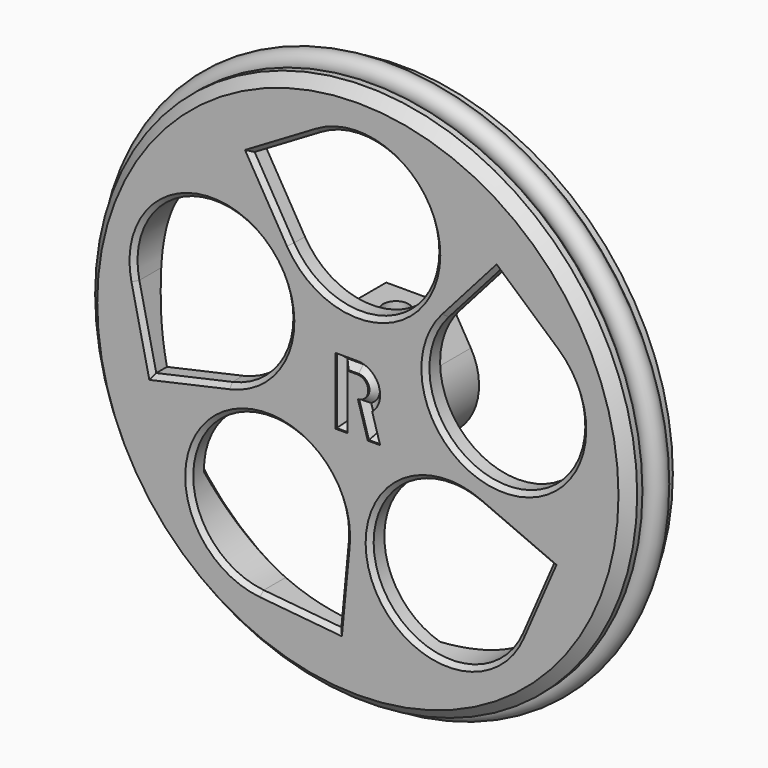
from build123d import *

# Parameters (mm, degrees)
PAD_DEPTH             = 8
CHAMFER_SIZE          = 2
SKETCH002_R           = 2.6
POCKET_DEPTH          = 1.6
SKETCH003_R           = 1.7
POCKET001_DEPTH       = 8
POCKET002_DEPTH       = 1.175
POCKET005_DEPTH       = 209.921216
POCKET005_DEPTH_BACK  = 215.521216
POLARPATTERN001_COUNT = 5
CHAMFER004_SIZE       = 0.6
POCKET008_DEPTH       = 1
CHAMFER005_SIZE       = 0.7999
TORUS001_R            = 1.5


with BuildPart() as body_wheel_right:
    # Sketch → Revolution (revolve)
    with BuildSketch(Plane.XY):
        with BuildLine():
            Line((0, -2), (28.3, -2))
            Line((28.3, -2), (33.3, 3))
            Line((33.3, 3), (36.5, 3))
            Line((36.5, 3), (36.5, 2.12132))
            Line((36.5, 2.12132), (35.43934, 1.06066))
            ThreePointArc((35.43934, 1.06066), (35, 0), (35.43934, -1.06066))
            Line((35.43934, -1.06066), (36.5, -2.12132))
            Line((36.5, -2.12132), (36.5, -3))
            Line((36.5, -3), (35.1, -4.4))
            Line((35.1, -4.4), (0, -4.4))
            Line((0, -4.4), (0, -2))
        make_face()
    revolve(axis=Axis((0, 0, 0), (0, 1, 0)))

    # Sketch001 (on Face1 of Revolution) → Pad (new body)
    with BuildSketch(Plane(origin=(0, -2, 0), x_dir=(-1, 0, 0), z_dir=(0, 1, 0))):
        with BuildLine():
            Line((4.5, 8.125), (-4.5, 8.125))
            Line((-4.5, 8.125), (-6.893963, 4.058728))
            ThreePointArc((-6.893963, 4.058728), (0, -8), (6.893963, 4.058728))
            Line((6.893963, 4.058728), (4.5, 8.125))
        make_face()
        with BuildLine():
            Line((-2.04939, 1.6), (2.04939, 1.6))
            ThreePointArc((2.04939, -1.6), (2.6, 0), (2.04939, 1.6))
            Line((-2.04939, -1.6), (2.04939, -1.6))
            ThreePointArc((-2.04939, 1.6), (-2.6, 0), (-2.04939, -1.6))
        make_face(mode=Mode.SUBTRACT)
    extrude(amount=PAD_DEPTH)

    # Chamfer
    chamfer_edges = [body_wheel_right.edges().sort_by_distance(p)[0] for p in [
        (0, -2, -8),
    ]]
    chamfer(chamfer_edges, length=CHAMFER_SIZE)

    # Sketch002 (on Face8 of Chamfer) → Pocket (cut)
    with BuildSketch(Plane(origin=(0, 6, 0), x_dir=(-1, 0, 0), z_dir=(0, 1, 0))):
        Circle(SKETCH002_R)
    extrude(amount=-POCKET_DEPTH, mode=Mode.SUBTRACT)

    # Sketch003 (on Face8 of Pocket) → Pocket001 (cut)
    with BuildSketch(Plane.XY.offset(8.125)):
        with Locations((0, 2)):
            Circle(SKETCH003_R)
    extrude(amount=-POCKET001_DEPTH, mode=Mode.SUBTRACT)

    # Sketch004 (on Face9 of Pocket001) → Pocket002 (cut, symmetric)
    with BuildSketch(Plane.XY.offset(5.3875)):
        Polygon((-2.8, 0.016581), (-2.8, 6.016581), (2.8, 6.016581), (2.8, 0.016581), (0, -1.6), align=None)
    extrude(amount=POCKET002_DEPTH, both=True, mode=Mode.SUBTRACT)

    # Sketch010 (on Face20 of Clone001) → Pocket005 (cut, two sides)
    with BuildSketch(Plane(origin=(0, -2, 0), x_dir=(-1, 0, 0), z_dir=(0, 1, 0))) as pocket005_sk:
        with BuildLine():
            ThreePointArc((5.334836, 29.709948), (-10.1672, 18.043588), (9.043756, 15.331356))
            Line((14.378592, 24.375112), (9.043756, 15.331356))
            Line((5.334836, 29.709948), (14.378592, 24.375112))
        make_face()
    pocket005 = extrude(amount=-POCKET005_DEPTH, mode=Mode.SUBTRACT) + extrude(pocket005_sk.sketch, amount=POCKET005_DEPTH_BACK, mode=Mode.SUBTRACT)

    # PolarPattern001: Pocket005 ×5 about axis
    polarpattern001_axis = Axis((0, -2, 0), (0, 1, 0))
    for i in range(1, POLARPATTERN001_COUNT):
        add(pocket005.rotate(polarpattern001_axis, i * 360 / POLARPATTERN001_COUNT), mode=Mode.SUBTRACT)

    # Chamfer004
    chamfer004_edges = [body_wheel_right.edges().sort_by_distance(p)[0] for p in [
        (10.1672, -4.4, 18.043588),
        (20.30231, -4.4, -4.093806),
        (2.380318, -4.4, -20.5737),
        (-18.831193, -4.4, -8.621439),
        (-14.018635, -4.4, 15.245357),
    ]]
    chamfer(chamfer004_edges, length=CHAMFER004_SIZE)

    # Sketch007 (on Face9 of Chamfer004) → Pocket008 (cut)
    with BuildSketch(Plane.XZ.offset(4.4)):
        with BuildLine():
            Line((-1.4, 2.9), (-1.4, -4.5))
            Line((-1.4, -4.5), (-3, -4.5))
            Line((-3, -4.5), (-3, 4.5))
            Line((-3, 4.5), (-0.050439, 4.5))
            ThreePointArc((1.926922, -0.8732), (2.812306, 2.503064), (-0.050439, 4.5))
            Line((1.926922, -0.8732), (3, -4.5))
            Line((3, -4.5), (1.331436, -4.5))
            Line((1.331436, -4.5), (0, 0))
            ThreePointArc((0, 0), (1.399781, 1.474784), (-0.050439, 2.9))
            Line((-1.4, 2.9), (-0.050439, 2.9))
        make_face()
    extrude(amount=-POCKET008_DEPTH, mode=Mode.SUBTRACT)

    # Chamfer005
    chamfer005_edges = [body_wheel_right.edges().sort_by_distance(p)[0] for p in [
        (-1.4, -3.4, -0.8),
        (-2.2, -3.4, -4.5),
        (-3, -3.4, 0),
        (-1.525219, -3.4, 4.5),
        (2.812306, -3.4, 2.503064),
        (2.463461, -3.4, -2.6866),
        (2.165718, -3.4, -4.5),
        (0.665718, -3.4, -2.25),
        (1.399781, -3.4, 1.474784),
        (-0.725219, -3.4, 2.9),
    ]]
    chamfer(chamfer005_edges, length=CHAMFER005_SIZE)


with BuildPart() as o_ring_r:
    # Torus001 → Torus001 (revolve)
    with BuildSketch(Plane(origin=(0, 0, 0), x_dir=(1, 0, 0), z_dir=(0, 0, -1))):
        with Locations((36.5, 0)):
            Circle(TORUS001_R)
    revolve(axis=Axis((0, 0, 0), (0, -1, 0)))


solid = Compound([body_wheel_right.part, o_ring_r.part])
